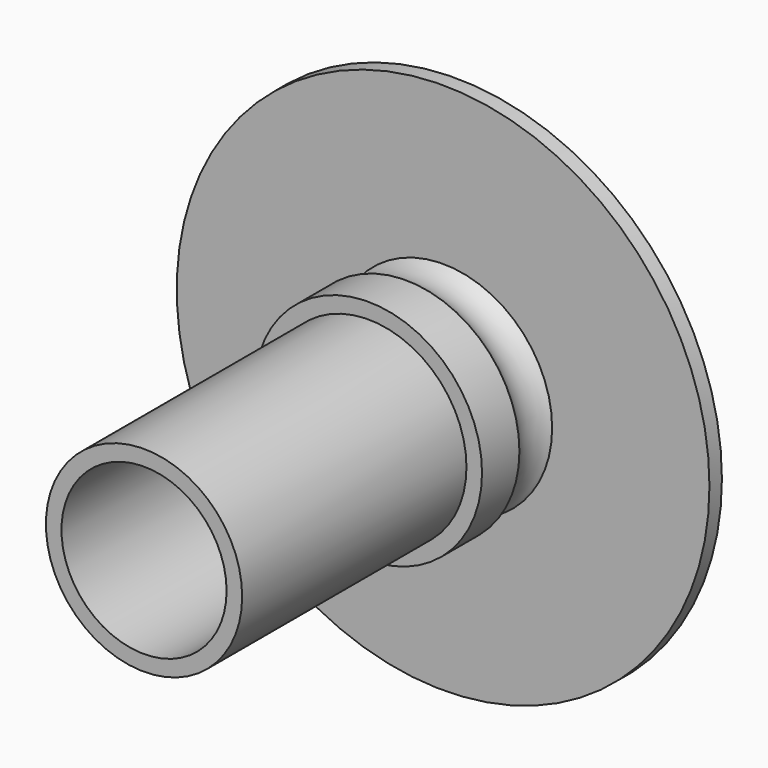
from build123d import *

# Parameters (mm, degrees)
F1_W   = 1
F1_H   = 1
F1_H_2 = 3


with BuildPart() as f2:
    # F1 (on Top) → F2 (revolve)
    with BuildSketch(Plane.XY):
        with Locations((5.8, 19.201042)):
            Rectangle(F1_W, F1_H)
        Polygon((5.3, 18.701042), (5.3, -5.298958), (6.3, -5.298958), (6.3, 12.701042), (6.3, 15.701042), (6.3, 18.701042), align=None)
        Polygon((6.3, 19.701042), (6.3, 18.701042), (7, 18.701042), (17.1, 18.701042), (17.1, 19.701042), align=None)
        with BuildLine():
            Line((7, 18.701042), (6.3, 18.701042))
            Line((6.3, 18.701042), (6.3, 15.701042))
            Line((6.3, 15.701042), (7.3, 15.701042))
            ThreePointArc((7.3, 15.701042), (6.489082, 17.13495), (7, 18.701042))
        make_face()
        with Locations((6.8, 14.201042)):
            Rectangle(F1_W, F1_H_2)
    revolve(axis=Axis((0, 5.007949, 0), (0, 1, 0)))


solid = f2.part
